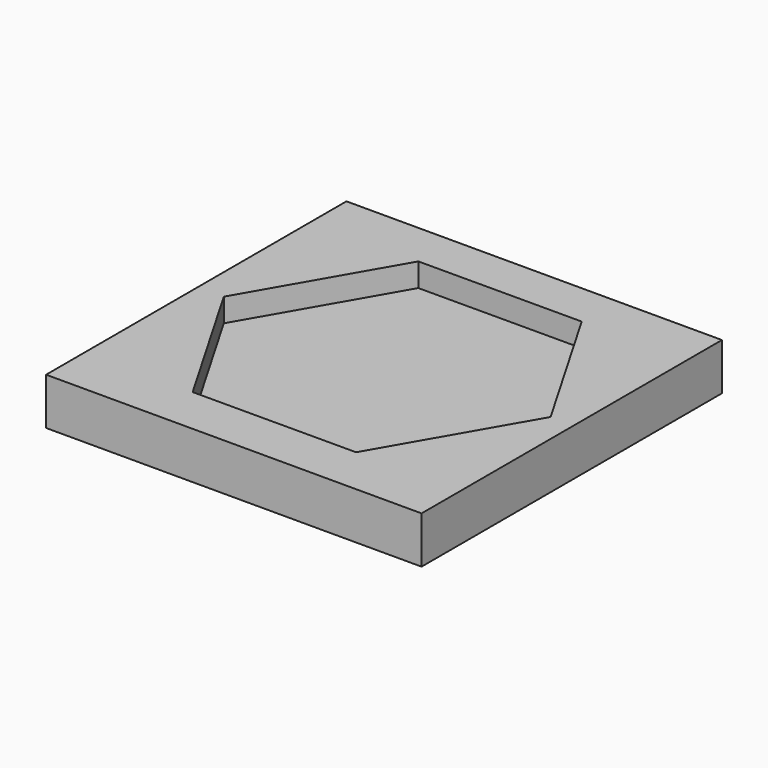
from build123d import *

# Parameters (mm, degrees)
F0_W     = 80
F0_H     = 80
F1_DEPTH = 10
F3_DEPTH = 5


with BuildPart() as f1:
    # F0 (on Top) → F1 (new body)
    with BuildSketch(Plane.XY):
        with Locations((-5.18092, 10.622335)):
            Rectangle(F0_W, F0_H)
    extrude(amount=F1_DEPTH)

    # F2 (on face) → F3 (cut)
    with BuildSketch(Plane.XY.offset(10)):
        Polygon((-39.65473, 11.044783), (-22.22027, -19.038205), (12.549591, -18.981014), (29.884993, 11.159165), (12.450534, 41.242153), (-22.319328, 41.184962), align=None)
    extrude(amount=-F3_DEPTH, mode=Mode.SUBTRACT)


solid = f1.part
